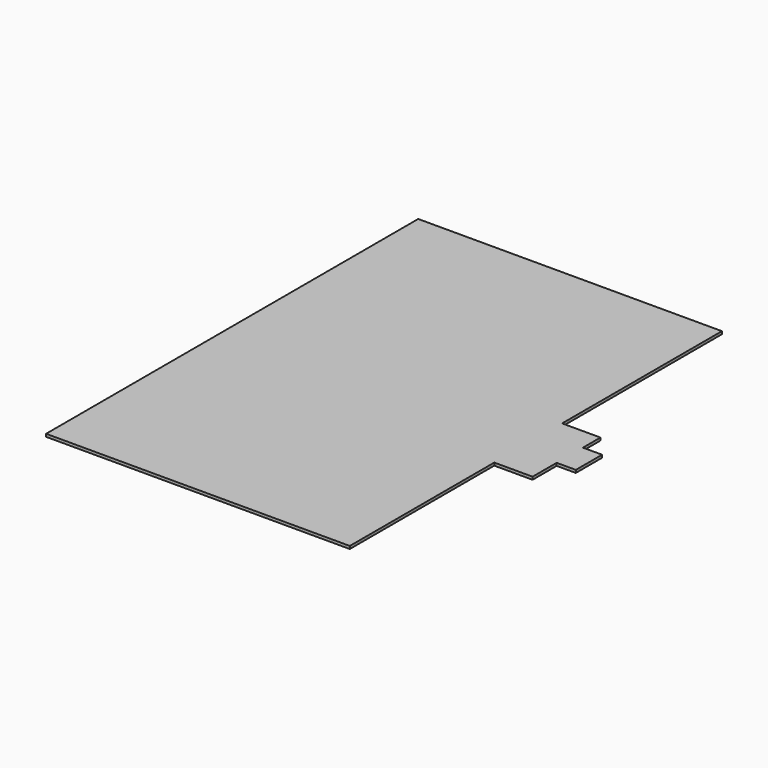
from build123d import *

# Parameters (mm, degrees)
BOX014_W     = 111
BOX014_H     = 170
BOX014_DEPTH = 1
BOX015_W     = 14
BOX015_H     = 31
BOX015_DEPTH = 1
BOX016_W     = 7
BOX016_H     = 12
BOX016_DEPTH = 1
BOX017_W     = 97
BOX017_H     = 163
BOX017_DEPTH = 1


with BuildPart() as part:
    # Box014 → Box014 (join)
    with BuildSketch(Plane.XY):
        with Locations((55.5, 85)):
            Rectangle(BOX014_W, BOX014_H)
    extrude(amount=BOX014_DEPTH)

    # Box015 → Box015 (join)
    with BuildSketch(Plane(origin=(111, 66, 0), x_dir=(1, 0, 0), z_dir=(0, 0, 1))):
        with Locations((7, 15.5)):
            Rectangle(BOX015_W, BOX015_H)
    extrude(amount=BOX015_DEPTH)

    # Box016 → Box016 (join)
    with BuildSketch(Plane(origin=(125, 77, 0), x_dir=(1, 0, 0), z_dir=(0, 0, 1))):
        with Locations((3.5, 6)):
            Rectangle(BOX016_W, BOX016_H)
    extrude(amount=BOX016_DEPTH)

    # Box017 → Box017 (join)
    with BuildSketch(Plane(origin=(3, 3, 0), x_dir=(1, 0, 0), z_dir=(0, 0, 1))):
        with Locations((48.5, 81.5)):
            Rectangle(BOX017_W, BOX017_H)
    extrude(amount=BOX017_DEPTH)


with BuildPart() as part_1:
    # Body002 placement: moved
    add(part.part.moved(Location((24, 3, 6))))


solid = part_1.part
